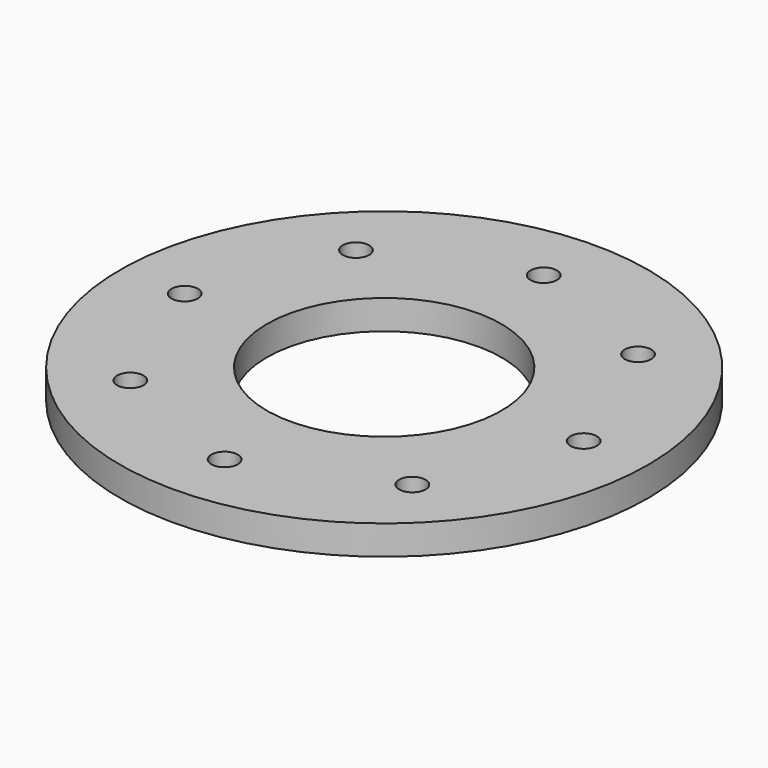
from build123d import *

# Parameters (mm, degrees)
SKETCH_R                = 45
SKETCH_R_2              = 20
SKETCH_R_3              = 2.25
EXTRUDE_DEPTH           = 5
EXTRUDE_PLACEMENT_ANGLE = 45


with BuildPart() as part:
    # Sketch → Extrude (new body)
    with BuildSketch(Plane.XY):
        Circle(SKETCH_R)
        Circle(SKETCH_R_2, mode=Mode.SUBTRACT)
        with Locations((-24.041631, 24.041631)):
            Circle(SKETCH_R_3, mode=Mode.SUBTRACT)
        with Locations((0, 34)):
            Circle(SKETCH_R_3, mode=Mode.SUBTRACT)
        with Locations((34, 0)):
            Circle(SKETCH_R_3, mode=Mode.SUBTRACT)
        with Locations((0, -34)):
            Circle(SKETCH_R_3, mode=Mode.SUBTRACT)
        with Locations((-24.041631, -24.041631)):
            Circle(SKETCH_R_3, mode=Mode.SUBTRACT)
        with Locations((-34, 0)):
            Circle(SKETCH_R_3, mode=Mode.SUBTRACT)
        with Locations((24.041631, -24.041631)):
            Circle(SKETCH_R_3, mode=Mode.SUBTRACT)
        with Locations((24.041631, 24.041631)):
            Circle(SKETCH_R_3, mode=Mode.SUBTRACT)
    extrude(amount=EXTRUDE_DEPTH)


with BuildPart() as part_1:
    # Extrude placement: moved
    add(part.part.rotate(Axis((0, 0, 0), (0, 0, -1)), EXTRUDE_PLACEMENT_ANGLE))


solid = part_1.part
